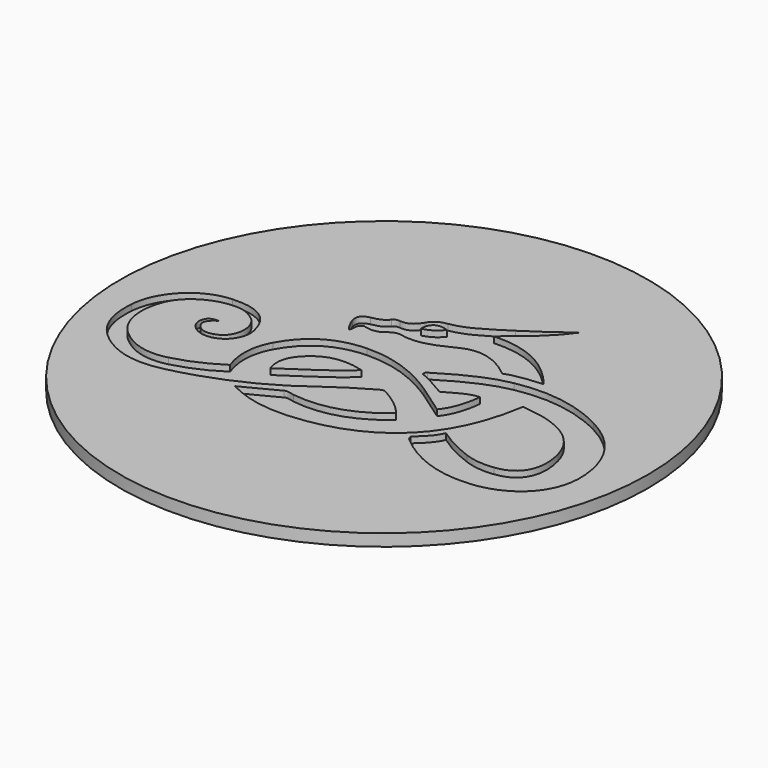
from build123d import *

# Parameters (mm, degrees)
SKETCH001_R  = 440
PAD_DEPTH    = 20
POCKET_DEPTH = 10


with BuildPart() as part:
    # Sketch001 (on DatumPlane) → Pad (new body)
    with BuildSketch(Plane.XY):
        Circle(SKETCH001_R)
    extrude(amount=-PAD_DEPTH)

    # Sketch002 (on DatumPlane) → Pocket (cut)
    with BuildSketch(Plane(origin=(-390, 260, 0), x_dir=(1, 0, 0), z_dir=(0, 0, 1))):
        with BuildLine():
            add(Edge.make_bspline(
                [(122.863954, -270.443325), (110.332414, -278.119866), (105.589361, -286.394366), (112.780022, -296.006758)],
                knots=[0, 0, 0, 0, 1, 1, 1, 1], degree=3))
            add(Edge.make_bspline(
                [(112.780022, -296.006758), (119.49221, -304.979493), (128.871477, -307.266658), (140.569976, -303.873112)],
                knots=[0, 0, 0, 0, 1, 1, 1, 1], degree=3))
            add(Edge.make_bspline(
                [(140.569976, -303.873112), (171.073498, -295.024387), (169.926714, -254.778616), (151.720867, -239.422808)],
                knots=[0, 0, 0, 0, 1, 1, 1, 1], degree=3))
            add(Edge.make_bspline(
                [(151.720867, -239.422808), (142.236137, -231.422866), (131.633965, -225.904081), (118.628425, -225.186161)],
                knots=[0, 0, 0, 0, 1, 1, 1, 1], degree=3))
            add(Edge.make_bspline(
                [(118.628425, -225.186161), (83.768115, -223.261767), (46.833049, -243.859103), (34.675657, -272.630847)],
                knots=[0, 0, 0, 0, 1, 1, 1, 1], degree=3))
            add(Edge.make_bspline(
                [(34.675657, -272.630847), (19.497119, -308.552374), (26.235448, -348.084987), (51.756151, -370.650426)],
                knots=[0, 0, 0, 0, 1, 1, 1, 1], degree=3))
            add(Edge.make_bspline(
                [(51.756151, -370.650426), (76.117953, -392.191187), (104.314281, -400.184382), (136.101376, -392.13536)],
                knots=[0, 0, 0, 0, 1, 1, 1, 1], degree=3))
            add(Edge.make_bspline(
                [(136.101376, -392.13536), (163.050802, -385.311332), (188.024373, -373.816959), (211.723711, -358.343888)],
                knots=[0, 0, 0, 0, 1, 1, 1, 1], degree=3))
            add(Edge.make_bspline(
                [(211.723711, -358.343888), (201.550799, -329.088882), (201.790803, -301.319777), (216.177918, -274.562464)],
                knots=[0, 0, 0, 0, 1, 1, 1, 1], degree=3))
            add(Edge.make_bspline(
                [(216.177918, -274.562464), (238.903431, -232.297235), (275.450909, -211.906723), (322.318354, -210.633284)],
                knots=[0, 0, 0, 0, 1, 1, 1, 1], degree=3))
            add(Edge.make_bspline(
                [(322.318354, -210.633284), (370.312553, -209.329232), (412.495921, -227.762382), (451.717727, -253.733697)],
                knots=[0, 0, 0, 0, 1, 1, 1, 1], degree=3))
            add(Edge.make_bspline(
                [(451.717727, -253.733697), (467.900967, -264.449666), (483.581313, -275.925201), (500.691309, -287.8954)],
                knots=[0, 0, 0, 0, 1, 1, 1, 1], degree=3))
            add(Edge.make_bspline(
                [(500.691309, -287.8954), (514.534573, -270.073252), (519.972343, -249.661521), (522.707976, -225.856535)],
                knots=[0, 0, 0, 0, 1, 1, 1, 1], degree=3))
            add(Edge.make_bspline(
                [(522.707976, -225.856535), (502.509949, -226.995858), (488.34204, -238.94333), (471.970365, -247.055693)],
                knots=[0, 0, 0, 0, 1, 1, 1, 1], degree=3))
            add(Edge.make_bspline(
                [(471.970365, -247.055693), (455.875364, -238.153866), (440.350804, -228.097265), (423.947167, -221.646433)],
                knots=[0, 0, 0, 0, 1, 1, 1, 1], degree=3))
            add(Edge.make_bspline(
                [(423.947167, -221.646433), (422.782841, -217.780817), (424.274033, -215.832875), (426.131355, -214.694558)],
                knots=[0, 0, 0, 0, 1, 1, 1, 1], degree=3))
            add(Edge.make_bspline(
                [(426.131355, -214.694558), (459.481476, -194.255416), (493.539171, -174.923159), (532.465994, -167.548243)],
                knots=[0, 0, 0, 0, 1, 1, 1, 1], degree=3))
            add(Edge.make_bspline(
                [(532.465994, -167.548243), (585.548264, -157.49143), (636.246505, -165.891104), (684.124526, -190.898039)],
                knots=[0, 0, 0, 0, 1, 1, 1, 1], degree=3))
            add(Edge.make_bspline(
                [(684.124526, -190.898039), (732.826539, -216.335266), (761.442364, -256.761694), (766.370917, -311.035885)],
                knots=[0, 0, 0, 0, 1, 1, 1, 1], degree=3))
            add(Edge.make_bspline(
                [(766.370917, -311.035885), (772.430113, -377.75978), (724.304363, -419.779344), (665.624224, -425.002484)],
                knots=[0, 0, 0, 0, 1, 1, 1, 1], degree=3))
            add(Edge.make_bspline(
                [(665.624224, -425.002484), (615.314709, -429.480477), (568.870968, -413.051757), (529.401167, -380.10883)],
                knots=[0, 0, 0, 0, 1, 1, 1, 1], degree=3))
            add(Edge.make_bspline(
                [(529.401167, -380.10883), (526.392061, -377.5973), (522.417516, -375.564135), (521.774394, -369.17159)],
                knots=[0, 0, 0, 0, 1, 1, 1, 1], degree=3))
            add(Edge.make_bspline(
                [(521.774394, -369.17159), (532.157649, -358.924543), (544.755731, -349.027406), (551.454743, -332.867)],
                knots=[0, 0, 0, 0, 1, 1, 1, 1], degree=3))
            add(Edge.make_bspline(
                [(551.454743, -332.867), (571.093415, -346.692008), (591.099857, -356.715642), (612.244828, -364.513945)],
                knots=[0, 0, 0, 0, 1, 1, 1, 1], degree=3))
            add(Edge.make_bspline(
                [(612.244828, -364.513945), (627.992246, -370.321734), (644.38784, -371.390492), (660.620292, -369.480465)],
                knots=[0, 0, 0, 0, 1, 1, 1, 1], degree=3))
            add(Edge.make_bspline(
                [(660.620292, -369.480465), (701.76435, -364.63896), (713.965795, -331.403537), (702.601253, -288.766859)],
                knots=[0, 0, 0, 0, 1, 1, 1, 1], degree=3))
            add(Edge.make_bspline(
                [(702.601253, -288.766859), (692.229401, -249.853953), (662.560799, -229.565729), (625.541172, -219.324581)],
                knots=[0, 0, 0, 0, 1, 1, 1, 1], degree=3))
            add(Edge.make_bspline(
                [(625.541172, -219.324581), (612.562513, -215.734133), (598.835559, -214.848519), (583.377331, -212.399351)],
                knots=[0, 0, 0, 0, 1, 1, 1, 1], degree=3))
            add(Edge.make_bspline(
                [(583.377331, -212.399351), (565.941184, -326.468131), (505.717545, -401.078197), (388.928822, -419.739366)],
                knots=[0, 0, 0, 0, 1, 1, 1, 1], degree=3))
            add(Edge.make_bspline(
                [(388.928822, -419.739366), (344.224954, -426.882428), (299.105558, -424.896941), (254.345149, -401.119128)],
                knots=[0, 0, 0, 0, 1, 1, 1, 1], degree=3))
            add(Edge.make_bspline(
                [(254.345149, -401.119128), (275.961845, -389.860473), (293.870301, -380.440856), (311.874879, -371.208882)],
                knots=[0, 0, 0, 0, 1, 1, 1, 1], degree=3))
            add(Edge.make_bspline(
                [(311.874879, -371.208882), (317.731881, -368.20565), (323.437726, -371.666479), (329.166326, -372.42459)],
                knots=[0, 0, 0, 0, 1, 1, 1, 1], degree=3))
            add(Edge.make_bspline(
                [(329.166326, -372.42459), (380.84588, -379.264042), (425.290721, -363.776286), (465.925614, -329.575821)],
                knots=[0, 0, 0, 0, 1, 1, 1, 1], degree=3))
            add(Edge.make_bspline(
                [(465.925614, -329.575821), (451.390623, -311.786799), (434.293169, -300.303697), (416.182493, -290.351977)],
                knots=[0, 0, 0, 0, 1, 1, 1, 1], degree=3))
            add(Edge.make_bspline(
                [(416.182493, -290.351977), (411.804882, -287.946491), (406.720966, -291.735457), (402.421222, -294.222408)],
                knots=[0, 0, 0, 0, 1, 1, 1, 1], degree=3))
            add(Edge.make_bspline(
                [(402.421222, -294.222408), (381.204073, -306.494392), (360.125671, -319.017015), (340.55685, -333.827332)],
                knots=[0, 0, 0, 0, 1, 1, 1, 1], degree=3))
            add(Edge.make_bspline(
                [(340.55685, -333.827332), (284.014862, -376.620061), (220.715417, -404.823877), (151.89491, -420.748619)],
                knots=[0, 0, 0, 0, 1, 1, 1, 1], degree=3))
            add(Edge.make_bspline(
                [(151.89491, -420.748619), (109.718052, -430.508145), (71.038746, -423.515525), (37.385016, -394.448189)],
                knots=[0, 0, 0, 0, 1, 1, 1, 1], degree=3))
            add(Edge.make_bspline(
                [(37.385016, -394.448189), (9.71251, -370.547), (2.348706, -339.589163), (4.731729, -304.942928)],
                knots=[0, 0, 0, 0, 1, 1, 1, 1], degree=3))
            add(Edge.make_bspline(
                [(4.731729, -304.942928), (7.951708, -258.128532), (47.649659, -214.305515), (98.960596, -211.773611)],
                knots=[0, 0, 0, 0, 1, 1, 1, 1], degree=3))
            add(Edge.make_bspline(
                [(98.960596, -211.773611), (139.166679, -209.789686), (165.976803, -222.481643), (175.717226, -263.135533)],
                knots=[0, 0, 0, 0, 1, 1, 1, 1], degree=3))
            add(Edge.make_bspline(
                [(175.717226, -263.135533), (179.764531, -280.027724), (171.739745, -298.656375), (157.935824, -307.121957)],
                knots=[0, 0, 0, 0, 1, 1, 1, 1], degree=3))
            add(Edge.make_bspline(
                [(157.935824, -307.121957), (142.599939, -316.527101), (124.681827, -315.713427), (112.16984, -304.872602)],
                knots=[0, 0, 0, 0, 1, 1, 1, 1], degree=3))
            add(Edge.make_bspline(
                [(112.16984, -304.872602), (105.176294, -298.813114), (101.393413, -291.231479), (103.860335, -281.904017)],
                knots=[0, 0, 0, 0, 1, 1, 1, 1], degree=3))
            add(Edge.make_bspline(
                [(103.860335, -281.904017), (105.711704, -274.904041), (110.03616, -270.154479), (122.863954, -270.443325)],
                knots=[0, 0, 0, 0, 1, 1, 1, 1], degree=3))
        make_face()
        with BuildLine():
            add(Edge.make_bspline(
                [(354.699861, -262.880554), (323.467227, -254.332634), (295.467193, -255.950059), (271.926235, -279.114991)],
                knots=[0, 0, 0, 0, 1, 1, 1, 1], degree=3))
            add(Edge.make_bspline(
                [(271.926235, -279.114991), (257.368278, -293.440379), (250.56629, -310.213005), (258.571921, -332.857925)],
                knots=[0, 0, 0, 0, 1, 1, 1, 1], degree=3))
            add(Edge.make_bspline(
                [(258.571921, -332.857925), (290.61701, -309.753132), (324.939634, -291.472964), (354.699861, -262.880554)],
                knots=[0, 0, 0, 0, 1, 1, 1, 1], degree=3))
        make_face(mode=Mode.SUBTRACT)
        with BuildLine():
            add(Edge.make_bspline(
                [(564.468645, -145.7443), (543.196806, -147.707138), (523.32599, -148.571056), (504.103375, -156.152559)],
                knots=[0, 0, 0, 0, 1, 1, 1, 1], degree=3))
            add(Edge.make_bspline(
                [(504.103375, -156.152559), (492.23766, -146.86452), (480.191789, -138.272599), (465.957973, -133.098487)],
                knots=[0, 0, 0, 0, 1, 1, 1, 1], degree=3))
            add(Edge.make_bspline(
                [(465.957973, -133.098487), (448.974607, -126.924911), (432.829547, -126.118752), (415.988897, -134.23474)],
                knots=[0, 0, 0, 0, 1, 1, 1, 1], degree=3))
            add(Edge.make_bspline(
                [(415.988897, -134.23474), (394.890043, -144.402836), (373.822198, -155.453689), (349.313368, -154.899439)],
                knots=[0, 0, 0, 0, 1, 1, 1, 1], degree=3))
            add(Edge.make_bspline(
                [(349.313368, -154.899439), (345.708658, -154.817948), (341.938054, -155.002812), (338.544085, -154.024224)],
                knots=[0, 0, 0, 0, 1, 1, 1, 1], degree=3))
            add(Edge.make_bspline(
                [(338.544085, -154.024224), (329.178259, -151.323701), (321.123284, -152.497181), (313.452669, -159.056626)],
                knots=[0, 0, 0, 0, 1, 1, 1, 1], degree=3))
            add(Edge.make_bspline(
                [(313.452669, -159.056626), (303.139157, -167.876141), (290.935833, -167.198516), (279.602062, -163.871778)],
                knots=[0, 0, 0, 0, 1, 1, 1, 1], degree=3))
            add(Edge.make_bspline(
                [(279.602062, -163.871778), (269.467859, -167.891486), (274.102989, -176.961826), (270.808318, -184.657577)],
                knots=[0, 0, 0, 0, 1, 1, 1, 1], degree=3))
            add(Edge.make_bspline(
                [(270.808318, -184.657577), (264.724806, -176.49608), (260.147991, -168.629621), (257.482022, -160.045956)],
                knots=[0, 0, 0, 0, 1, 1, 1, 1], degree=3))
            add(Edge.make_bspline(
                [(257.482022, -160.045956), (253.762219, -148.069353), (260.917875, -141.8454), (271.42522, -139.655788)],
                knots=[0, 0, 0, 0, 1, 1, 1, 1], degree=3))
            add(Edge.make_bspline(
                [(271.42522, -139.655788), (280.909448, -137.679351), (289.847549, -135.963501), (296.052134, -127.339751)],
                knots=[0, 0, 0, 0, 1, 1, 1, 1], degree=3))
            add(Edge.make_bspline(
                [(296.052134, -127.339751), (298.42296, -124.044631), (303.100422, -123.067392), (307.277373, -123.514326)],
                knots=[0, 0, 0, 0, 1, 1, 1, 1], degree=3))
            add(Edge.make_bspline(
                [(307.277373, -123.514326), (321.092248, -124.992368), (329.694778, -117.177794), (335.783899, -106.57115)],
                knots=[0, 0, 0, 0, 1, 1, 1, 1], degree=3))
            add(Edge.make_bspline(
                [(335.783899, -106.57115), (341.556737, -96.515343), (349.596816, -92.476426), (360.773715, -90.687869)],
                knots=[0, 0, 0, 0, 1, 1, 1, 1], degree=3))
            add(Edge.make_bspline(
                [(360.773715, -90.687869), (391.713297, -85.736853), (416.063747, -66.634889), (441.864565, -50.857176)],
                knots=[0, 0, 0, 0, 1, 1, 1, 1], degree=3))
            add(Edge.make_bspline(
                [(441.864565, -50.857176), (465.814304, -36.211431), (488.144053, -19.257592), (510.74828, -2.393924)],
                knots=[0, 0, 0, 0, 1, 1, 1, 1], degree=3))
            add(Edge.make_bspline(
                [(510.74828, -2.393924), (489.555287, -33.028916), (460.681176, -55.819014), (429.526144, -80.802956)],
                knots=[0, 0, 0, 0, 1, 1, 1, 1], degree=3))
            add(Edge.make_bspline(
                [(429.526144, -80.802956), (487.065029, -78.244806), (529.647097, -102.04495), (564.468645, -145.7443)],
                knots=[0, 0, 0, 0, 1, 1, 1, 1], degree=3))
        make_face()
        with BuildLine():
            add(Edge.make_bspline(
                [(370.708502, -104.962616), (352.5647, -98.261329), (341.367428, -105.536286), (342.093418, -123.574757)],
                knots=[0, 0, 0, 0, 1, 1, 1, 1], degree=3))
            add(Edge.make_bspline(
                [(342.093418, -123.574757), (353.729211, -120.368536), (363.370416, -114.989134), (370.708502, -104.962616)],
                knots=[0, 0, 0, 0, 1, 1, 1, 1], degree=3))
        make_face(mode=Mode.SUBTRACT)
    extrude(amount=-POCKET_DEPTH, mode=Mode.SUBTRACT)


solid = part.part
